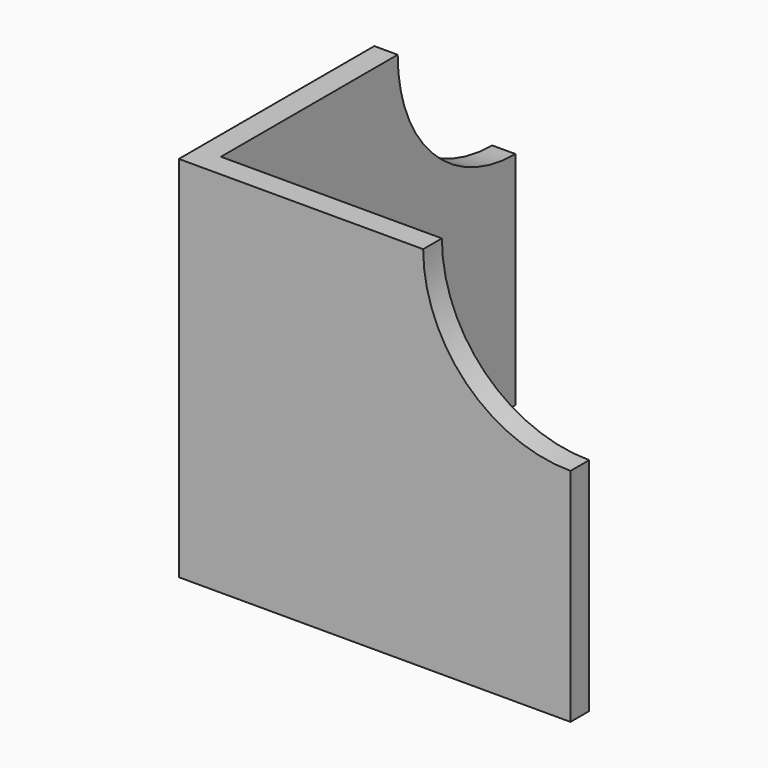
from build123d import *

# Parameters (mm, degrees)
F0_W     = 100
F0_H     = 100
F1_DEPTH = 6.35
F2_W     = 106.35
F2_H     = 100
F3_DEPTH = 6.35
F6_DEPTH = 25
F7_DEPTH = 25


with BuildPart() as f1:
    # F0 (on Front) → F1 (new body)
    with BuildSketch(Plane.XZ):
        Rectangle(F0_W, F0_H)
    extrude(amount=F1_DEPTH)

    # F2 (on face) → F3 (join)
    with BuildSketch(Plane(origin=(-50, 0, 0), x_dir=(0, -1, 0), z_dir=(-1, 0, 0))):
        with Locations((-46.825, 0)):
            Rectangle(F2_W, F2_H)
    extrude(amount=F3_DEPTH)

    # F5 (on face) → F6 (cut)
    with BuildSketch(Plane(origin=(-56.35, 0, 0), x_dir=(0, -1, 0), z_dir=(-1, 0, 0))):
        with BuildLine():
            Line((-100, 50), (-100, 10))
            ThreePointArc((-100, 10), (-71.715729, 21.715729), (-60, 50))
            Line((-60, 50), (-100, 50))
        make_face()
    extrude(amount=-F6_DEPTH, mode=Mode.SUBTRACT)

    # F4 (on face) → F7 (cut)
    with BuildSketch(Plane.XZ.offset(6.35)):
        with BuildLine():
            Line((50, 50), (10, 50))
            ThreePointArc((10, 50), (21.715729, 21.715729), (50, 10))
            Line((50, 10), (50, 50))
        make_face()
    extrude(amount=-F7_DEPTH, mode=Mode.SUBTRACT)


solid = f1.part
